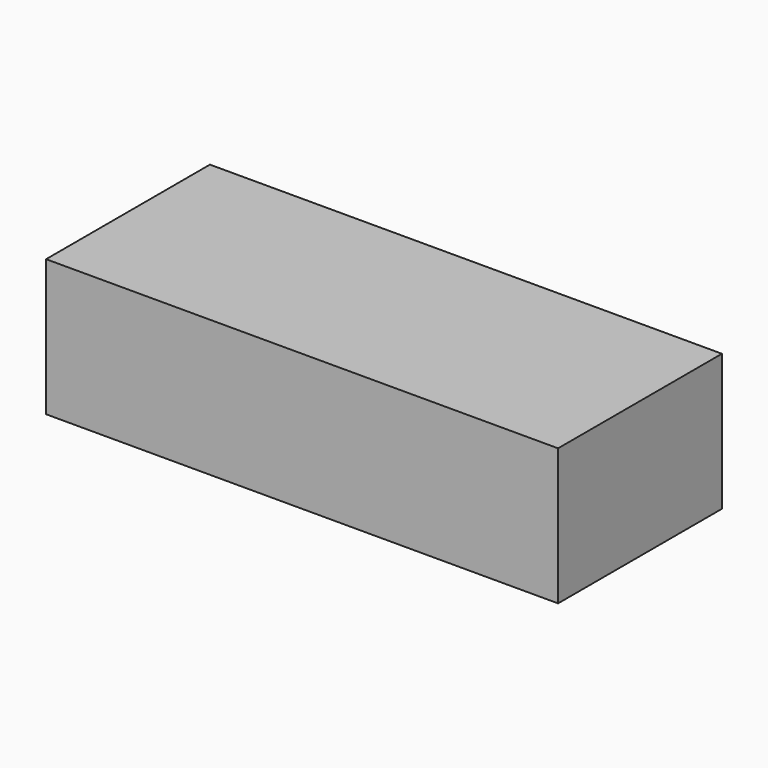
from build123d import *

# Parameters (mm, degrees)
SKETCH_W       = 75
SKETCH_H       = 20
PAD_DEPTH      = 15
PAD_DEPTH_BACK = 15


with BuildPart() as part:
    # Sketch → Pad (new body, two sides)
    with BuildSketch(Plane.XZ) as pad_sk:
        Rectangle(SKETCH_W, SKETCH_H)
    extrude(amount=PAD_DEPTH)
    extrude(pad_sk.sketch, amount=-PAD_DEPTH_BACK)


solid = part.part
